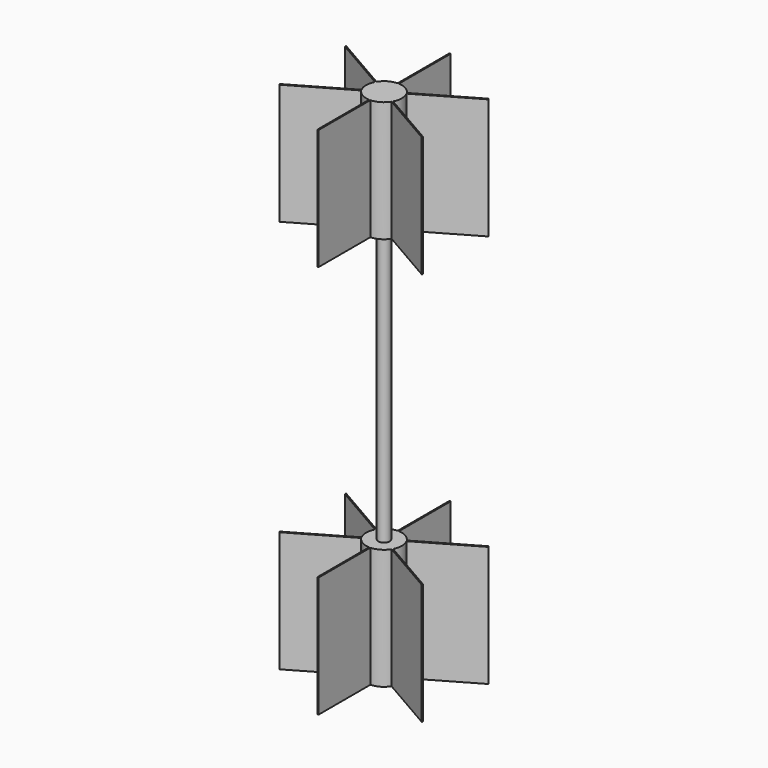
from build123d import *

# Parameters (mm, degrees)
F1_W     = 254
F1_H     = 254
F2_DEPTH = 107.188
F3_R     = 5.08
F4_DEPTH = 242.824
F5_W     = 254
F5_H     = 254
F5_R     = 5.08
F6_DEPTH = 107.188
F7_R     = 5.08
F8_DEPTH = 107.188
F9_DEPTH = 543.306


with BuildPart() as f2:
    # F1 (on Top) → F2 (new body)
    with BuildSketch(Plane.XY):
        Rectangle(F1_W, F1_H)
    extrude(amount=F2_DEPTH)

    # F3 (on face) → F4 (join)
    with BuildSketch(Plane.XY.offset(107.188)):
        Circle(F3_R)
    extrude(amount=F4_DEPTH)

    # F5 (on face) → F6 (join)
    with BuildSketch(Plane.XY.offset(350.012)):
        Rectangle(F5_W, F5_H)
        Circle(F5_R, mode=Mode.SUBTRACT)
    extrude(amount=F6_DEPTH)

    # F7 (on face) → F8 (join)
    with BuildSketch(Plane.XY.offset(350.012)):
        Circle(F7_R)
    extrude(amount=F8_DEPTH)

    # F0 (on Top) → F9 (intersect)
    with BuildSketch(Plane.XY):
        with BuildLine():
            Line((0.5588, -73.3578699913), (0.5588, -15.8651620717))
            ThreePointArc((0.5588, -15.8651620717), (7.9375, -13.7481532851), (13.4602333892, -8.4165160315))
            Line((13.4602333892, -8.4165160315), (63.25037898, -37.1628699913))
            Line((63.25037898, -37.1628699913), (63.80917898, -36.195))
            Line((63.80917898, -36.195), (14.0190333892, -7.4486460402))
            ThreePointArc((14.0190333892, -7.4486460402), (15.875, 0), (14.0190333892, 7.4486460402))
            Line((14.0190333892, 7.4486460402), (63.80917898, 36.195))
            Line((63.80917898, 36.195), (63.25037898, 37.1628699913))
            Line((63.25037898, 37.1628699913), (13.4602333892, 8.4165160315))
            ThreePointArc((13.4602333892, 8.4165160315), (7.9375, 13.7481532851), (0.5588, 15.8651620717))
            Line((0.5588, 15.8651620717), (0.5588, 73.3578699913))
            Line((0.5588, 73.3578699913), (-0.5588, 73.3578699913))
            Line((-0.5588, 73.3578699913), (-0.5588, 15.8651620717))
            ThreePointArc((-0.5588, 15.8651620717), (-7.9375, 13.7481532851), (-13.4602333892, 8.4165160315))
            Line((-13.4602333892, 8.4165160315), (-63.25037898, 37.1628699913))
            Line((-63.25037898, 37.1628699913), (-63.80917898, 36.195))
            Line((-63.80917898, 36.195), (-14.0190333892, 7.4486460402))
            ThreePointArc((-14.0190333892, 7.4486460402), (-15.875, 0), (-14.0190333892, -7.4486460402))
            Line((-14.0190333892, -7.4486460402), (-63.80917898, -36.195))
            Line((-63.80917898, -36.195), (-63.25037898, -37.1628699913))
            Line((-63.25037898, -37.1628699913), (-13.4602333892, -8.4165160315))
            ThreePointArc((-13.4602333892, -8.4165160315), (-7.9375, -13.7481532851), (-0.5588, -15.8651620717))
            Line((-0.5588, -15.8651620717), (-0.5588, -73.3578699913))
            Line((-0.5588, -73.3578699913), (0.5588, -73.3578699913))
        make_face()
        with BuildLine():
            ThreePointArc((-0.5588, -5.0491724629), (-3.3887826723, 3.7845147641), (5.08, 0))
            ThreePointArc((5.08, 0), (3.7845147641, -3.3887826723), (0.5588, -5.0491724629))
            ThreePointArc((0.5588, -5.0491724629), (0, -5.08), (-0.5588, -5.0491724629))
        make_face(mode=Mode.SUBTRACT)
        with BuildLine():
            ThreePointArc((0.5588, -5.0491724629), (3.7845147641, -3.3887826723), (5.08, 0))
            ThreePointArc((5.08, 0), (-3.3887826723, 3.7845147641), (-0.5588, -5.0491724629))
            Line((-0.5588, -5.0491724629), (-0.5588, -0.9678699913))
            Line((-0.5588, -0.9678699913), (0.5588, -0.9678699913))
            Line((0.5588, -0.9678699913), (0.5588, -5.0491724629))
        make_face()
        with BuildLine():
            Line((-0.5588, -0.9678699913), (-0.5588, -5.0491724629))
            ThreePointArc((-0.5588, -5.0491724629), (0, -5.08), (0.5588, -5.0491724629))
            Line((0.5588, -5.0491724629), (0.5588, -0.9678699913))
            Line((0.5588, -0.9678699913), (-0.5588, -0.9678699913))
        make_face()
    extrude(amount=F9_DEPTH, mode=Mode.INTERSECT)


solid = f2.part
